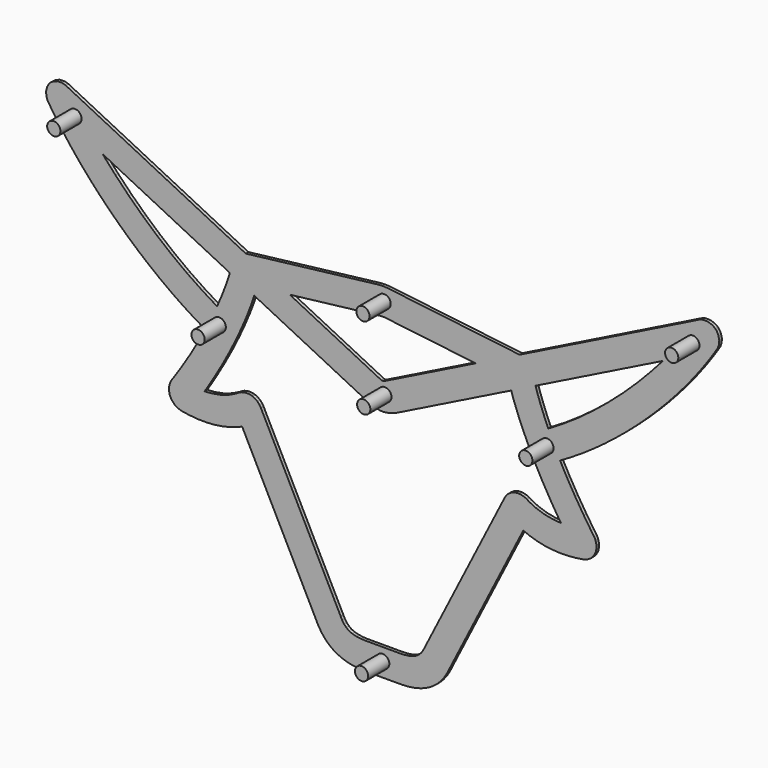
from build123d import *

# Parameters (mm, degrees)
F1_DEPTH = 3.175
F2_R     = 6.35
F3_DEPTH = 25.4


with BuildPart() as f1:
    # F0 (on Front) → F1 (new body)
    with BuildSketch(Plane.XZ):
        Polygon((320.37688, 196.158815), (319.65298, 196.956375), (318.89098, 197.751395), (316.09698, 199.633535), (311.98726, 201.030535), (307.64386, 201.101655), (304.37742, 200.268535), (303.39444, 199.783395), (131.41866, 114.309855), (11.14458, 128.627835), (5.2086, 129.339035), (4.77934, 129.389835), (0.46896, 129.638755), (0.03716, 129.638755), (-0.39464, 129.638755), (-4.71264, 129.389835), (-5.1419, 129.339035), (-12.43932, 128.462735), (-131.39768, 114.299695), (-303.733886, 199.948495), (-304.697054, 200.431095), (-307.907919, 201.228655), (-312.182612, 201.111815), (-316.20648, 199.664015), (-318.907439, 197.743775), (-319.628164, 196.943675), (-319.900986, 196.621095), (-320.581757, 195.820995), (-322.104487, 192.978735), (-323.0388, 188.927435), (-322.683251, 184.787235), (-321.575303, 181.759555), (-321.014471, 180.870555), (-319.353895, 178.239115), (-314.172473, 170.469255), (-306.805482, 160.090815), (-298.953352, 149.775875), (-290.656442, 139.554915), (-281.94983, 129.468575), (-272.872886, 119.547335), (-263.46498, 109.834375), (-253.763704, 100.360175), (-243.808428, 91.162835), (-233.635728, 82.277915), (-223.285228, 73.740975), (-212.79452, 65.590115), (-202.20272, 57.860895), (-191.546404, 50.588875), (-180.86672, 43.809615), (-172.894676, 39.072261), (-170.199228, 37.560707), (-171.825336, 34.444889), (-176.892382, 25.193955), (-184.467424, 12.166041), (-192.964486, -1.418387), (-199.994952, -11.992153), (-202.417858, -15.460777), (-202.951004, -16.224301), (-204.165124, -18.786145), (-205.021104, -22.374657), (-204.964208, -26.063499), (-204.331748, -28.826511), (-203.976402, -29.689095), (-203.623596, -30.547615), (-202.129568, -32.949439), (-199.57763, -35.605009), (-196.440984, -37.552173), (-193.76357, -38.519405), (-192.841804, -38.690601), (-190.866954, -39.047217), (-184.893128, -39.873987), (-177.134952, -40.516099), (-169.572102, -40.615667), (-162.212198, -40.173199), (-155.059812, -39.189203), (-148.119008, -37.664949), (-141.395374, -35.600945), (-136.489618, -33.714233), (-134.893736, -32.997699), (-63.6, -173.682965), (-63.0793, -174.797771), (-61.32924, -178.059639), (-58.84512, -181.953967), (-56.17558, -185.392111), (-53.34348, -188.401833), (-50.37422, -191.010489), (-47.28812, -193.247035), (-44.11312, -195.139081), (-40.86954, -196.714161), (-37.58532, -197.998486), (-34.27824, -199.022386), (-30.98132, -199.812021), (-27.70726, -200.396297), (-24.49162, -200.801453), (-21.34964, -201.056367), (-18.30926, -201.190047), (-16.12232, -201.22863), (-15.39334, -201.22863), (15.47528, -201.22863), (16.20426, -201.22863), (18.3912, -201.190047), (21.43158, -201.057739), (24.5761, -200.804196), (27.7892, -200.401784), (31.05818, -199.823019), (34.3551, -199.04169), (37.65202, -198.030211), (40.93116, -196.761024), (44.16204, -195.206595), (47.32688, -193.340736), (50.3952, -191.134492), (53.34414, -188.563098), (56.15592, -185.596073), (58.79752, -182.208983), (61.25116, -178.373837), (62.97582, -175.163023), (63.4889, -174.063457), (134.9772, -33.005827), (136.56724, -33.722615), (141.46944, -35.606533), (148.18266, -37.669267), (155.11686, -39.192251), (162.26696, -40.175993), (169.63296, -40.616937), (177.2047, -40.516099), (184.98218, -39.871193), (190.97658, -39.041883), (192.96032, -38.683489), (193.87218, -38.515595), (196.52648, -37.553443), (199.6456, -35.614661), (202.19576, -32.965949), (203.68674, -30.568189), (204.04488, -29.709923), (204.40048, -28.849879), (205.03548, -26.093979), (205.0939, -22.406153), (204.24046, -18.802655), (203.02126, -16.213379), (202.48786, -15.438933), (200.0647, -11.969039), (193.03144, -1.393749), (184.52752, 12.193727), (176.9507, 25.222911), (171.8834, 34.476639), (170.26288, 37.592457), (172.95274, 39.104011), (180.9258, 43.842635), (191.60396, 50.621895), (202.25418, 57.893915), (212.84598, 65.623135), (223.33364, 73.771455), (233.6816, 82.305855), (243.85176, 91.188235), (253.80348, 100.383035), (263.5012, 109.854695), (272.90174, 119.565115), (281.97716, 129.481275), (290.6792, 139.565075), (298.9723, 149.780955), (306.81836, 160.090815), (314.17674, 170.459095), (319.3558, 178.223875), (321.01696, 180.855315), (321.59354, 181.762095), (322.71876, 184.873595), (323.0388, 189.133175), (322.00502, 193.278455), align=None)
        Polygon((140.4763, -6.888023), (138.45192, -5.617515), (137.72802, -5.162855), (135.36074, -4.114089), (132.09176, -3.332531), (128.7542, -3.287065), (126.24976, -3.728009), (125.45982, -3.995471), (124.73846, -4.233977), (122.69376, -5.246929), (120.27314, -7.015023), (118.26146, -9.237523), (117.04226, -11.169701), (116.7273, -11.855755), (40.25552, -162.763505), (39.90754, -163.514583), (38.72644, -165.708127), (36.98146, -168.265653), (34.91136, -170.435067), (32.39168, -172.212559), (29.30558, -173.597621), (25.53876, -174.589745), (20.96676, -175.185121), (16.84942, -175.384765), (15.47528, -175.384765), (-15.39334, -175.384765), (-16.76748, -175.384765), (-20.88482, -175.185121), (-25.45936, -174.582887), (-29.23634, -173.578317), (-32.33768, -172.165823), (-34.88022, -170.342611), (-36.98588, -168.105887), (-38.77658, -165.453365), (-40.0034, -163.164571), (-40.36916, -162.383267), (-116.644598, -11.855755), (-116.959812, -11.168177), (-118.185108, -9.233459), (-120.199836, -7.009181), (-122.625028, -5.239817), (-124.679634, -4.225595), (-125.396676, -3.987343), (-126.191442, -3.721405), (-128.696898, -3.285795), (-132.037252, -3.335579), (-135.301914, -4.121201), (-137.656748, -5.169459), (-138.374806, -5.624373), (-140.40198, -6.893611), (-146.896506, -10.039655), (-155.32448, -12.850927), (-163.408284, -14.359687), (-169.022446, -14.840509), (-170.894934, -14.870989), (-168.579978, -11.289589), (-161.870314, -0.390449), (-153.744092, 13.642035), (-146.507886, 27.098701), (-140.148234, 39.857883), (-134.657008, 51.792835), (-130.021254, 62.780875), (-126.22878, 72.694495), (-123.96183, 79.217215), (-123.269934, 81.409235), (-44.12328, 42.074795), (-44.12328, 42.072255), (-41.35976, 40.701163), (-12.8, 26.507389), (-11.81194, 26.019455), (-6.55922, 24.283111), (-1.60368, 23.521111), (0.04986, 23.521111), (0.41816, 23.522635), (2.25712, 23.698911), (4.08846, 23.988217), (4.45676, 24.046129), (4.63456, 24.075085), (6.43796, 24.259743), (6.61576, 24.301145), (6.77832, 24.339499), (8.34296, 24.926747), (8.50298, 24.975007), (8.87128, 25.089307), (10.7204, 25.673761), (12.52634, 26.372261), (12.87686, 26.544473), (32.70918, 36.398911), (44.15188, 42.079875), (44.14426, 42.084955), (123.33638, 81.439715), (124.02726, 79.245155), (126.2904, 72.722435), (130.08516, 62.803735), (134.72066, 51.813155), (140.21214, 39.871599), (146.5723, 27.108099), (153.8113, 13.646099), (161.9393, -0.387655), (168.65252, -11.288065), (170.97154, -14.870989), (169.09702, -14.840509), (163.48108, -14.359687), (155.3988, -12.849657), (146.97108, -10.036861), align=None, mode=Mode.SUBTRACT)
        Polygon((-265.695862, 150.189895), (-268.66563, 153.667155), (-146.695592, 93.052595), (-147.125106, 91.546375), (-148.557158, 87.068355), (-151.183518, 79.643935), (-154.613534, 70.883475), (-157.781676, 63.377775), (-158.885306, 60.898735), (-162.537318, 62.973915), (-173.266786, 69.598235), (-187.712528, 79.359455), (-202.097818, 90.070635), (-216.296164, 101.604775), (-230.176756, 113.850115), (-243.618436, 126.687275), (-256.489124, 139.999415), align=None, mode=Mode.SUBTRACT)
        Polygon((-89.161036, 93.306595), (-11.403, 102.564895), (-11.403, 102.562355), (-7.79366, 102.994155), (-2.02532, 103.682495), (-1.68242, 103.723135), (1.76436, 103.725675), (2.1098, 103.682495), (6.65894, 103.138935), (11.47732, 102.562355), (11.47732, 102.564895), (89.17846, 93.314215), (27.83746, 62.829135), (1.36304, 49.689715), (1.25382, 49.633835), (0.30132, 49.374755), (-0.01618, 49.374755), (-0.13302, 49.377295), (-1.243, 49.643995), (-1.3446, 49.694795), (-32.6374, 65.216735), align=None, mode=Mode.SUBTRACT)
        Polygon((162.5997, 63.004395), (158.94718, 60.929215), (157.83974, 63.410795), (154.67236, 70.919035), (151.24336, 79.679495), (148.61954, 87.103915), (147.18952, 91.579395), (146.76026, 93.083075), (268.69804, 153.682395), (265.72624, 150.202595), (256.52636, 140.019735), (243.66126, 126.712675), (230.2272, 113.878055), (216.34864, 101.637795), (202.15766, 90.101115), (187.77364, 79.395015), (173.32866, 69.631255), align=None, mode=Mode.SUBTRACT)
    extrude(amount=F1_DEPTH)


with BuildPart() as f3:
    # F2 (on face) → F3 (new body)
    with BuildSketch(Plane.XZ.offset(3.175)):
        with Locations((-295.329481, 176.85008)):
            Circle(F2_R)
        with Locations((1.36304, 116.959825)):
            Circle(F2_R)
        with Locations((-156.877756, 45.825359)):
            Circle(F2_R)
        with Locations((2.1098, 38.535502)):
            Circle(F2_R)
        with Locations((0.04097, -187.502956)):
            Circle(F2_R)
        with Locations((157.655433, 45.825359)):
            Circle(F2_R)
        with Locations((297.687024, 178.239115)):
            Circle(F2_R)
    extrude(amount=F3_DEPTH)


solid = Compound([f1.part, f3.part])
